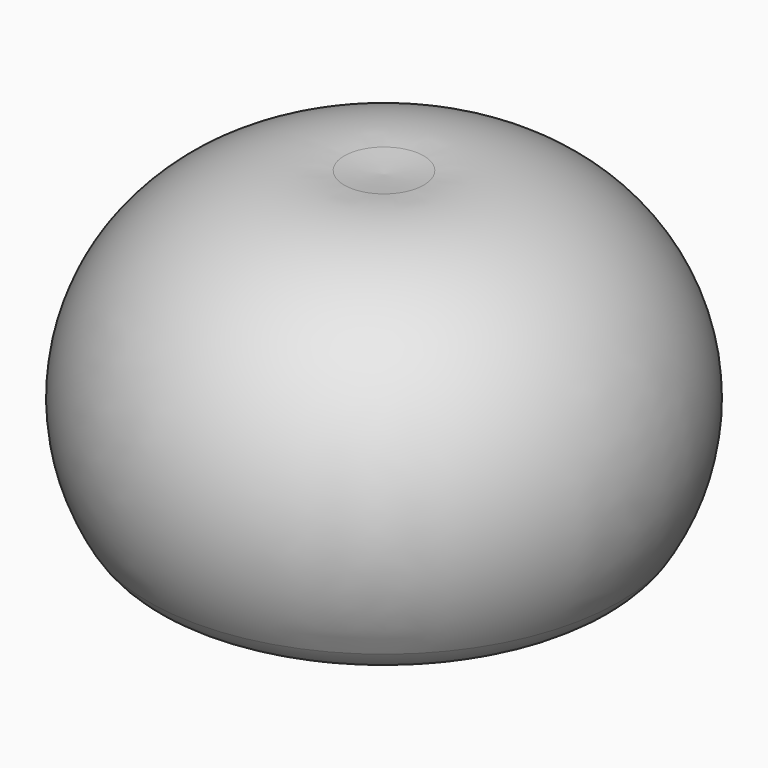
from build123d import *


with BuildPart() as f1:
    # F0 (on Front) → F1 (revolve)
    with BuildSketch(Plane.XZ):
        with BuildLine():
            ThreePointArc((-21.300104, -5.122971), (-20.992084, 13.394963), (-4.250896, 21.31591))
            ThreePointArc((-4.250896, 21.31591), (-2.128264, 21.107123), (0, 20.966947))
            Line((0, 20.966947), (0, 23.510204))
            ThreePointArc((0, 23.510204), (-1.983321, 23.6438), (-3.961493, 23.839369))
            ThreePointArc((-3.961493, 23.839369), (-23.126736, 14.771502), (-23.479357, -6.427753))
            ThreePointArc((-23.479357, -6.427753), (-20.055403, -9.022962), (-15.788383, -8.521857))
            Line((-15.788383, -8.521857), (-15.788383, -5.122971))
            ThreePointArc((-15.788383, -5.122971), (-18.544244, -6.685014), (-21.300104, -5.122971))
        make_face()
    revolve(axis=Axis((0, 0, 22.238576), (0, 0, -1)))


solid = f1.part
